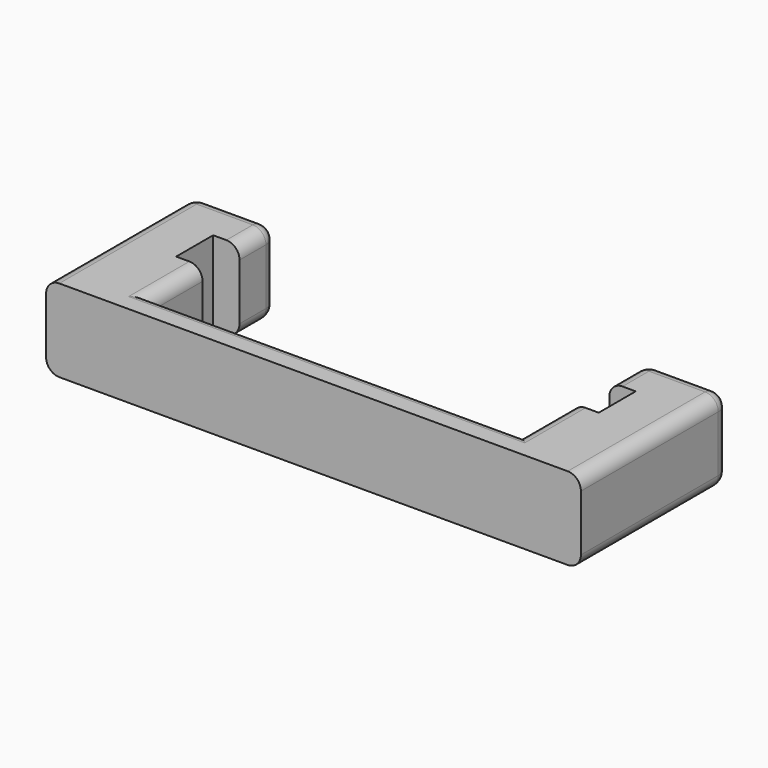
from build123d import *

# Parameters (mm, degrees)
F1_DEPTH = 3.175
F2_R     = 0.508
F3_R     = 0.381


with BuildPart() as f1:
    # F0 (on Top) → F1 (new body)
    with BuildSketch(Plane.XY):
        Polygon((-14.330484, 1.016), (-14.330484, 0), (6.243516, 0), (6.243516, 1.016), (6.243516, 7.112), (3.068516, 7.112), (3.068516, 5.334), (4.084516, 5.334), (4.084516, 3.556), (3.068516, 3.556), (3.068516, 1.016), (-11.155484, 1.016), (-11.155484, 3.556), (-12.171484, 3.556), (-12.171484, 5.334), (-11.155484, 5.334), (-11.155484, 7.112), (-14.330484, 7.112), align=None)
    extrude(amount=F1_DEPTH)

    # F2
    f2_edges = [f1.edges().sort_by_distance(p)[0] for p in [
        (-11.155484, 2.286, 3.175),
        (-11.155484, 2.286, 0),
        (3.068516, 2.286, 3.175),
        (6.243516, 3.556, 3.175),
        (6.243516, 3.556, 0),
        (-14.330484, 3.556, 3.175),
        (-12.742984, 7.112, 3.175),
        (6.243516, 7.112, 1.5875),
        (4.656016, 7.112, 3.175),
        (4.656016, 7.112, 0),
        (3.068516, 7.112, 1.5875),
        (-11.155484, 7.112, 1.5875),
        (-12.742984, 7.112, 0),
        (-14.330484, 7.112, 1.5875),
        (-11.155484, 6.223, 3.175),
        (-11.155484, 6.223, 0),
        (3.068516, 6.223, 3.175),
        (3.068516, 6.223, 0),
        (3.068516, 2.286, 0),
        (-14.330484, 3.556, 0),
    ]]
    fillet(f2_edges, radius=F2_R)

    # F3
    f3_edges = [f1.edges().sort_by_distance(p)[0] for p in [
        (-4.043484, 1.016, 0),
        (-4.043484, 1.016, 3.175),
    ]]
    fillet(f3_edges, radius=F3_R)


solid = f1.part
